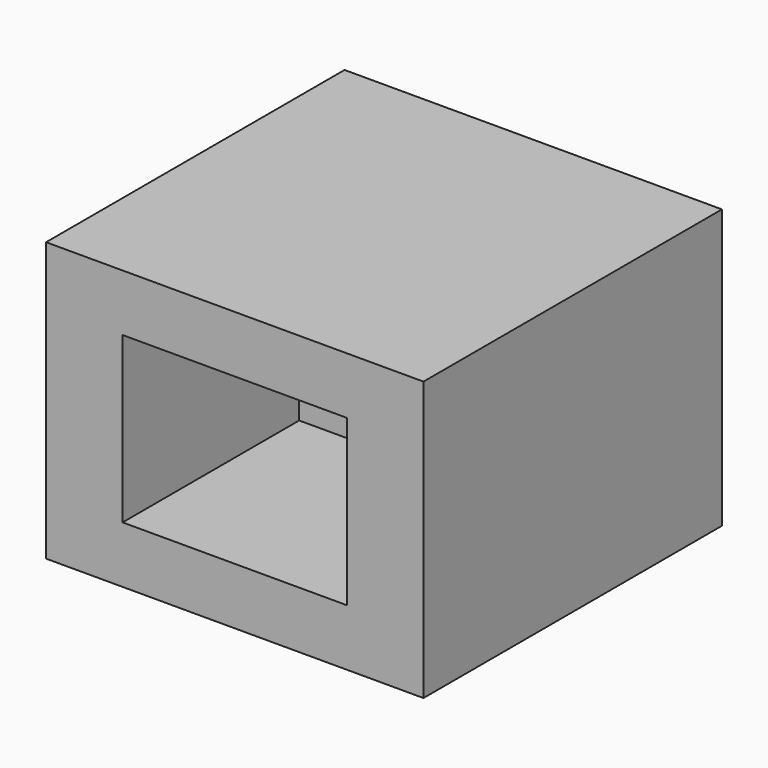
from build123d import *

# Parameters (mm, degrees)
F0_W     = 62.910616
F0_H     = 46.43853
F0_W_2   = 37.395
F0_H_2   = 27.496278
F1_DEPTH = 62.186921
F2_W     = 37.666064
F2_H     = 27.62061
F3_DEPTH = 25.4


with BuildPart() as f1:
    # F0 (on Front) → F1 (new body)
    with BuildSketch(Plane.XZ):
        Rectangle(F0_W, F0_H)
        Rectangle(F0_W_2, F0_H_2, mode=Mode.SUBTRACT)
    extrude(amount=F1_DEPTH)

    # F2 (on Front) → F3 (join)
    with BuildSketch(Plane.XZ):
        Rectangle(F2_W, F2_H)
    extrude(amount=F3_DEPTH)


solid = f1.part
